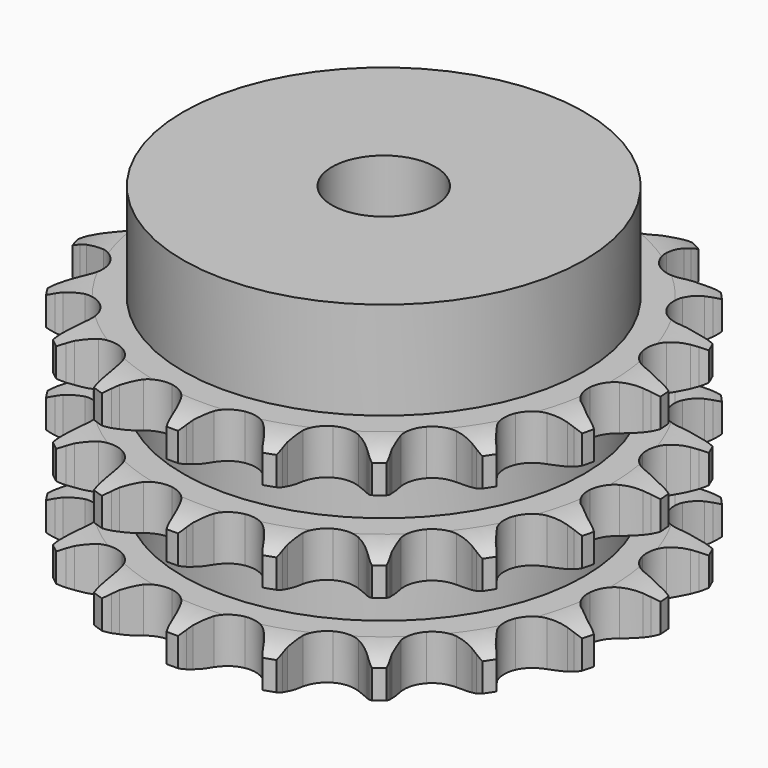
from build123d import *

# Parameters (mm, degrees)
PAD_DEPTH         = 34.9
SKETCH001_R       = 31
PAD001_DEPTH      = 50
SKETCH002_R       = 8
POCKET_DEPTH      = 0.0010001
POCKET_DEPTH_BACK = 50.001


with BuildPart() as part:
    # Sprocket → Pad (new body)
    with BuildSketch(Plane.XY):
        with BuildLine():
            ThreePointArc((-6.9707445484, 41.7733818998), (-6.0017139948, 40.6642409534), (-5.2850266596, 39.3775501917))
            Line((-5.2850266596, 39.3775501917), (-4.8769925333, 38.421171019))
            ThreePointArc((-4.8769925333, 38.421171019), (-4.2171674371, 37.1188061633), (-3.3924410992, 35.9140863442))
            ThreePointArc((-3.3924410992, 35.9140863442), (-1.8859526252, 34.6993028788), (0, 34.2652647632))
            ThreePointArc((0, 34.2652647632), (1.8859526252, 34.6993028788), (3.3924410992, 35.9140863442))
            ThreePointArc((3.3924410992, 35.9140863442), (4.2171674371, 37.1188061633), (4.8769925333, 38.421171019))
            Line((4.8769925333, 38.421171019), (5.2850266596, 39.3775501917))
            ThreePointArc((5.2850266596, 39.3775501917), (6.0017139948, 40.6642409534), (6.9707445484, 41.7733818998))
            ThreePointArc((6.9707445484, 41.7733818998), (7.5271328772, 40.4096935628), (7.7872003083, 38.9600112583))
            Line((7.7872003083, 38.9600112583), (7.8625902105, 37.9229628829))
            ThreePointArc((7.8625902105, 37.9229628829), (8.0637869856, 36.476918889), (8.4526554899, 35.0696859085))
            ThreePointArc((8.4526554899, 35.0696859085), (9.4830787166, 33.4315667541), (11.1259132808, 32.4086782045))
            ThreePointArc((11.1259132808, 32.4086782045), (13.0506117364, 32.2068311214), (14.869914056, 32.8666382601))
            Line((14.869914056, 32.8666382601), (17.0880774617, 34.7558491092))
            ThreePointArc((17.0880774617, 34.7558491092), (17.4272810662, 35.1500279482), (17.7845389833, 35.5279205561))
            ThreePointArc((17.7845389833, 35.5279205561), (18.8801820292, 36.512186866), (20.1568453111, 37.2465877901))
            ThreePointArc((20.1568453111, 37.2465877901), (20.2402981064, 35.7761288537), (20.015563292, 34.3205505783))
            Line((20.015563292, 34.3205505783), (19.7501393043, 33.3152132831))
            ThreePointArc((19.7501393043, 33.3152132831), (19.4709049659, 31.8821914553), (19.3817757002, 30.4249408424))
            ThreePointArc((19.3817757002, 30.4249408424), (19.8244713343, 28.5410016274), (21.0461612212, 27.0401084898))
            ThreePointArc((21.0461612212, 27.0401084898), (22.801034565, 26.2242494716), (24.7360010944, 26.257579942))
            Line((24.7360010944, 26.257579942), (27.4474040483, 27.3241916559))
            ThreePointArc((27.4474040483, 27.3241916559), (27.8962183257, 27.5868735678), (28.3568205526, 27.8282894558))
            ThreePointArc((28.3568205526, 27.8282894558), (29.7126893845, 28.4034707867), (31.1586391187, 28.6835479531))
            ThreePointArc((31.1586391187, 28.6835479531), (30.7601129752, 27.2656654594), (30.0749294195, 25.9619257048))
            Line((30.0749294195, 25.9619257048), (29.4974543494, 25.0972433853))
            ThreePointArc((29.4974543494, 25.0972433853), (28.7680482708, 23.8325338743), (28.2105797741, 22.4831813444))
            ThreePointArc((28.2105797741, 22.4831813444), (28.0175748746, 20.5575761151), (28.6857310285, 18.7413234498))
            ThreePointArc((28.6857310285, 18.7413234498), (30.0806115039, 17.3998634803), (31.9215585956, 16.8031054089))
            Line((31.9215585956, 16.8031054089), (34.8323785159, 16.9315340582))
            ThreePointArc((34.8323785159, 16.9315340582), (35.3421674752, 17.0342533818), (35.8562006137, 17.1130313926))
            ThreePointArc((35.8562006137, 17.1130313926), (37.3253658052, 17.2167979224), (38.7839109016, 17.0122006242))
            ThreePointArc((38.7839109016, 17.0122006242), (37.9465923108, 15.8005441423), (36.8752102837, 14.7899233405))
            Line((36.8752102837, 14.7899233405), (36.0482625157, 14.1595977428))
            ThreePointArc((36.0482625157, 14.1595977428), (34.9477271634, 13.2002514481), (33.9823297973, 12.1050202852))
            ThreePointArc((33.9823297973, 12.1050202852), (33.1745394397, 10.346418247), (33.2167567739, 8.4116252124))
            ThreePointArc((33.2167567739, 8.4116252124), (34.1004874375, 6.6899322943), (35.6479199089, 5.5277536777))
            Line((35.6479199089, 5.5277536777), (38.4427242913, 4.7040820254))
            ThreePointArc((38.4427242913, 4.7040820254), (38.9582443885, 4.6357075283), (39.4700049719, 4.5433108419))
            ThreePointArc((39.4700049719, 4.5433108419), (40.8932596781, 4.164417857), (42.206344144, 3.4973173862))
            ThreePointArc((42.206344144, 3.4973173862), (41.0209695675, 2.6231886966), (39.679489936, 2.015203293))
            Line((39.679489936, 2.015203293), (38.6926820919, 1.6875399761))
            ThreePointArc((38.6926820919, 1.6875399761), (37.340277548, 1.1375169545), (36.0715670967, 0.4150924493))
            ThreePointArc((36.0715670967, 0.4150924493), (34.7365279005, -0.9859345793), (34.1482315118, -2.8296031366))
            ThreePointArc((34.1482315118, -2.8296031366), (34.4250464338, -4.7449568609), (35.5112759657, -6.3466159364))
            Line((35.5112759657, -6.3466159364), (37.8872043894, -8.0331302862))
            ThreePointArc((37.8872043894, -8.0331302862), (38.3525910228, -8.2651891663), (38.8066218512, -8.5187479352))
            ThreePointArc((38.8066218512, -8.5187479352), (40.0297343407, -9.3392415007), (41.0550650995, -10.3965544571))
            ThreePointArc((41.0550650995, -10.3965544571), (39.6500882656, -10.8384299474), (38.1838811629, -10.9778953005))
            Line((38.1838811629, -10.9778953005), (37.1441491847, -10.9673889319))
            ThreePointArc((37.1441491847, -10.9673889319), (35.6864294661, -11.0484851515), (34.2518903932, -11.3198170942))
            ThreePointArc((34.2518903932, -11.3198170942), (32.5342745706, -12.2114460956), (31.3792155009, -13.7642000799))
            ThreePointArc((31.3792155009, -13.7642000799), (31.0191174893, -15.6656563145), (31.5264342573, -17.533231236))
            Line((31.5264342573, -17.533231236), (33.2260180114, -19.8998282844))
            ThreePointArc((33.2260180114, -19.8998282844), (33.5908393181, -20.2704243672), (33.9379391062, -20.6576681916))
            ThreePointArc((33.9379391062, -20.6576681916), (34.828366162, -21.8308491286), (35.4548327165, -23.1637983058))
            ThreePointArc((35.4548327165, -23.1637983058), (33.9825046656, -23.1255365309), (32.5504563818, -22.7813685986))
            Line((32.5504563818, -22.7813685986), (31.5704713625, -22.4338310725))
            ThreePointArc((31.5704713625, -22.4338310725), (30.1654030196, -22.0372124564), (28.7204898927, -21.8280488105))
            ThreePointArc((28.7204898927, -21.8280488105), (26.8064277696, -22.1136579473), (25.2097745918, -23.207232371))
            ThreePointArc((25.2097745918, -23.207232371), (24.2517858536, -24.8887388288), (24.1252142141, -26.819848875))
            Line((24.1252142141, -26.819848875), (24.964277027, -29.6100711103))
            ThreePointArc((24.964277027, -29.6100711103), (25.1889989577, -30.0790445598), (25.3915540576, -30.5580095626))
            ThreePointArc((25.3915540576, -30.5580095626), (25.852804092, -31.9567455129), (26.0125190702, -33.4208851846))
            ThreePointArc((26.0125190702, -33.4208851846), (24.6323893922, -32.9066324017), (23.3896845795, -32.1161271196))
            Line((23.3896845795, -32.1161271196), (22.5756431017, -31.4692195197))
            ThreePointArc((22.5756431017, -31.4692195197), (21.3754870914, -30.6378658491), (20.0767786681, -29.9708727411))
            ThreePointArc((20.0767786681, -29.9708727411), (18.1736885752, -29.6195118317), (16.3084634358, -30.1354009374))
            ThreePointArc((16.3084634358, -30.1354009374), (14.8563969155, -31.4147403024), (14.1096528696, -33.2001197355))
            Line((14.1096528696, -33.2001197355), (13.9972692661, -36.1116032839))
            ThreePointArc((13.9972692661, -36.1116032839), (14.0575397126, -36.6281335499), (14.0936001364, -37.1469164411))
            ThreePointArc((14.0936001364, -37.1469164411), (14.075689551, -38.6196326608), (13.7513453569, -40.0563005753))
            ThreePointArc((13.7513453569, -40.0563005753), (12.6129725173, -39.1217840527), (11.6942775245, -37.9706049342))
            Line((11.6942775245, -37.9706049342), (11.1343936138, -37.0944297367))
            ThreePointArc((11.1343936138, -37.0944297367), (10.2692054621, -35.9184310815), (9.2574369514, -34.8658875643))
            ThreePointArc((9.2574369514, -34.8658875643), (7.5715482299, -33.9156320151), (5.6398772146, -33.7979312133))
            ThreePointArc((5.6398772146, -33.7979312133), (3.8510868508, -34.5364672143), (2.5650917028, -35.9826424698))
            Line((2.5650917028, -35.9826424698), (1.5134401902, -38.6998829124))
            ThreePointArc((1.5134401902, -38.6998829124), (1.4027279145, -39.2079959258), (1.2683859556, -39.7103785295))
            ThreePointArc((1.2683859556, -39.7103785295), (0.7732556403, -41.0974833646), (0, -42.3509942611))
            ThreePointArc((0, -42.3509942611), (-0.7732556403, -41.0974833646), (-1.2683859556, -39.7103785295))
            Line((-1.2683859556, -39.7103785295), (-1.5134401902, -38.6998829124))
            ThreePointArc((-1.5134401902, -38.6998829124), (-1.9499039223, -37.3066769744), (-2.5650917028, -35.9826424698))
            ThreePointArc((-2.5650917028, -35.9826424698), (-3.8510868508, -34.5364672143), (-5.6398772146, -33.7979312133))
            ThreePointArc((-5.6398772146, -33.7979312133), (-7.5715482299, -33.9156320151), (-9.2574369514, -34.8658875643))
            Line((-9.2574369514, -34.8658875643), (-11.1343936138, -37.0944297367))
            ThreePointArc((-11.1343936138, -37.0944297367), (-11.4040912188, -37.5390635684), (-11.6942775245, -37.9706049342))
            ThreePointArc((-11.6942775245, -37.9706049342), (-12.6129725173, -39.1217840527), (-13.7513453569, -40.0563005753))
            ThreePointArc((-13.7513453569, -40.0563005753), (-14.075689551, -38.6196326608), (-14.0936001364, -37.1469164411))
            Line((-14.0936001364, -37.1469164411), (-13.9972692661, -36.1116032839))
            ThreePointArc((-13.9972692661, -36.1116032839), (-13.9577109607, -34.6521655444), (-14.1096528696, -33.2001197355))
            ThreePointArc((-14.1096528696, -33.2001197355), (-14.8563969155, -31.4147403024), (-16.3084634358, -30.1354009374))
            ThreePointArc((-16.3084634358, -30.1354009374), (-18.1736885752, -29.6195118317), (-20.0767786681, -29.9708727411))
            Line((-20.0767786681, -29.9708727411), (-22.5756431017, -31.4692195197))
            ThreePointArc((-22.5756431017, -31.4692195197), (-22.9751001157, -31.8021911948), (-23.3896845795, -32.1161271196))
            ThreePointArc((-23.3896845795, -32.1161271196), (-24.6323893922, -32.9066324017), (-26.0125190702, -33.4208851846))
            ThreePointArc((-26.0125190702, -33.4208851846), (-25.852804092, -31.9567455129), (-25.3915540576, -30.5580095626))
            Line((-25.3915540576, -30.5580095626), (-24.964277027, -29.6100711103))
            ThreePointArc((-24.964277027, -29.6100711103), (-24.4529834404, -28.2425542939), (-24.1252142141, -26.819848875))
            ThreePointArc((-24.1252142141, -26.819848875), (-24.2517858536, -24.8887388288), (-25.2097745918, -23.207232371))
            ThreePointArc((-25.2097745918, -23.207232371), (-26.8064277696, -22.1136579473), (-28.7204898927, -21.8280488105))
            Line((-28.7204898927, -21.8280488105), (-31.5704713625, -22.4338310725))
            ThreePointArc((-31.5704713625, -22.4338310725), (-32.0564004198, -22.6190579434), (-32.5504563818, -22.7813685986))
            ThreePointArc((-32.5504563818, -22.7813685986), (-33.9825046656, -23.1255365309), (-35.4548327165, -23.1637983058))
            ThreePointArc((-35.4548327165, -23.1637983058), (-34.828366162, -21.8308491286), (-33.9379391062, -20.6576681916))
            Line((-33.9379391062, -20.6576681916), (-33.2260180114, -19.8998282844))
            ThreePointArc((-33.2260180114, -19.8998282844), (-32.2983957372, -18.7724240573), (-31.5264342573, -17.533231236))
            ThreePointArc((-31.5264342573, -17.533231236), (-31.0191174893, -15.6656563145), (-31.3792155009, -13.7642000799))
            ThreePointArc((-31.3792155009, -13.7642000799), (-32.5342745706, -12.2114460956), (-34.2518903932, -11.3198170942))
            Line((-34.2518903932, -11.3198170942), (-37.1441491847, -10.9673889319))
            ThreePointArc((-37.1441491847, -10.9673889319), (-37.663892332, -10.984798793), (-38.1838811629, -10.9778953005))
            ThreePointArc((-38.1838811629, -10.9778953005), (-39.6500882656, -10.8384299474), (-41.0550650995, -10.3965544571))
            ThreePointArc((-41.0550650995, -10.3965544571), (-40.0297343407, -9.3392415007), (-38.8066218512, -8.5187479352))
            Line((-38.8066218512, -8.5187479352), (-37.8872043894, -8.0331302862))
            ThreePointArc((-37.8872043894, -8.0331302862), (-36.6437756946, -7.2680103899), (-35.5112759657, -6.3466159364))
            ThreePointArc((-35.5112759657, -6.3466159364), (-34.4250464338, -4.7449568609), (-34.1482315118, -2.8296031366))
            ThreePointArc((-34.1482315118, -2.8296031366), (-34.7365279005, -0.9859345793), (-36.0715670967, 0.4150924493))
            Line((-36.0715670967, 0.4150924493), (-38.6926820919, 1.6875399761))
            ThreePointArc((-38.6926820919, 1.6875399761), (-39.1899170946, 1.8398337534), (-39.679489936, 2.015203293))
            ThreePointArc((-39.679489936, 2.015203293), (-41.0209695675, 2.6231886966), (-42.206344144, 3.4973173862))
            ThreePointArc((-42.206344144, 3.4973173862), (-40.8932596781, 4.164417857), (-39.4700049719, 4.5433108419))
            Line((-39.4700049719, 4.5433108419), (-38.4427242913, 4.7040820254))
            ThreePointArc((-38.4427242913, 4.7040820254), (-37.0182339687, 5.0240049781), (-35.6479199089, 5.5277536777))
            ThreePointArc((-35.6479199089, 5.5277536777), (-34.1004874375, 6.6899322943), (-33.2167567739, 8.4116252124))
            ThreePointArc((-33.2167567739, 8.4116252124), (-33.1745394397, 10.346418247), (-33.9823297973, 12.1050202852))
            Line((-33.9823297973, 12.1050202852), (-36.0482625157, 14.1595977428))
            ThreePointArc((-36.0482625157, 14.1595977428), (-36.4691062457, 14.4650917646), (-36.8752102837, 14.7899233405))
            ThreePointArc((-36.8752102837, 14.7899233405), (-37.9465923108, 15.8005441423), (-38.7839109016, 17.0122006242))
            ThreePointArc((-38.7839109016, 17.0122006242), (-37.3253658052, 17.2167979224), (-35.8562006137, 17.1130313926))
            Line((-35.8562006137, 17.1130313926), (-34.8323785159, 16.9315340582))
            ThreePointArc((-34.8323785159, 16.9315340582), (-33.3811921952, 16.7715914512), (-31.9215585956, 16.8031054089))
            ThreePointArc((-31.9215585956, 16.8031054089), (-30.0806115039, 17.3998634803), (-28.6857310285, 18.7413234498))
            ThreePointArc((-28.6857310285, 18.7413234498), (-28.0175748746, 20.5575761151), (-28.2105797741, 22.4831813444))
            Line((-28.2105797741, 22.4831813444), (-29.4974543494, 25.0972433853))
            ThreePointArc((-29.4974543494, 25.0972433853), (-29.7963018587, 25.5228326341), (-30.0749294195, 25.9619257048))
            ThreePointArc((-30.0749294195, 25.9619257048), (-30.7601129752, 27.2656654594), (-31.1586391187, 28.6835479531))
            ThreePointArc((-31.1586391187, 28.6835479531), (-29.7126893845, 28.4034707867), (-28.3568205526, 27.8282894558))
            Line((-28.3568205526, 27.8282894558), (-27.4474040483, 27.3241916559))
            ThreePointArc((-27.4474040483, 27.3241916559), (-26.1267802849, 26.7017157525), (-24.7360010944, 26.257579942))
            ThreePointArc((-24.7360010944, 26.257579942), (-22.801034565, 26.2242494716), (-21.0461612212, 27.0401084898))
            ThreePointArc((-21.0461612212, 27.0401084898), (-19.8244713343, 28.5410016274), (-19.3817757002, 30.4249408424))
            Line((-19.3817757002, 30.4249408424), (-19.7501393043, 33.3152132831))
            ThreePointArc((-19.7501393043, 33.3152132831), (-19.894605828, 33.8147785601), (-20.015563292, 34.3205505783))
            ThreePointArc((-20.015563292, 34.3205505783), (-20.2402981064, 35.7761288537), (-20.1568453111, 37.2465877901))
            ThreePointArc((-20.1568453111, 37.2465877901), (-18.8801820292, 36.512186866), (-17.7845389833, 35.5279205561))
            Line((-17.7845389833, 35.5279205561), (-17.0880774617, 34.7558491092))
            ThreePointArc((-17.0880774617, 34.7558491092), (-16.0411263319, 33.7382948322), (-14.869914056, 32.8666382601))
            ThreePointArc((-14.869914056, 32.8666382601), (-13.0506117364, 32.2068311214), (-11.1259132808, 32.4086782045))
            ThreePointArc((-11.1259132808, 32.4086782045), (-9.4830787166, 33.4315667541), (-8.4526554899, 35.0696859085))
            Line((-8.4526554899, 35.0696859085), (-7.8625902105, 37.9229628829))
            ThreePointArc((-7.8625902105, 37.9229628829), (-7.8370205592, 38.4423685388), (-7.7872003083, 38.9600112583))
            ThreePointArc((-7.7872003083, 38.9600112583), (-7.5271328772, 40.4096935628), (-6.9707445484, 41.7733818998))
        make_face()
    extrude(amount=PAD_DEPTH)

    # Sketch → Groove (revolve, cut)
    with BuildSketch(Plane.XZ):
        with BuildLine():
            ThreePointArc((35.1834313734, 0), (38.0903197441, 0.3291673517), (40.85, 1.3))
            Line((40.85, 1.3), (40.85, 5.7))
            ThreePointArc((40.85, 5.7), (38.0903197441, 6.6708326483), (35.1834313734, 7))
            Line((31, 7), (35.1834313734, 7))
            Line((31, 7), (31, 13.95))
            Line((31, 13.95), (35.1834313734, 13.95))
            ThreePointArc((35.1834313734, 13.95), (38.0903197441, 14.2791673517), (40.85, 15.25))
            Line((40.85, 19.65), (40.85, 15.25))
            ThreePointArc((40.85, 19.65), (38.0903197441, 20.6208326483), (35.1834313734, 20.95))
            Line((31, 20.95), (35.1834313734, 20.95))
            Line((31, 27.9), (31, 20.95))
            Line((35.1834313734, 27.9), (31, 27.9))
            ThreePointArc((35.1834313734, 27.9), (38.0903197441, 28.2291673517), (40.85, 29.2))
            Line((40.85, 29.2), (40.85, 33.6))
            ThreePointArc((40.85, 33.6), (38.0903197441, 34.5708326483), (35.1834313734, 34.9))
            Line((35.1834313734, 34.9), (50.85, 34.9))
            Line((50.85, 34.9), (50.85, 0))
            Line((35.1834313734, 0), (50.85, 0))
        make_face()
    revolve(axis=Axis((0, 0, 0), (0, 0, 1)), mode=Mode.SUBTRACT)

    # Sketch001 → Pad001 (join)
    with BuildSketch(Plane.XY):
        Circle(SKETCH001_R)
    extrude(amount=PAD001_DEPTH)

    # Sketch002 → Pocket (cut, two sides)
    with BuildSketch(Plane.XY) as pocket_sk:
        Circle(SKETCH002_R)
    extrude(amount=-POCKET_DEPTH, mode=Mode.SUBTRACT)
    extrude(pocket_sk.sketch, amount=POCKET_DEPTH_BACK, mode=Mode.SUBTRACT)


solid = part.part
